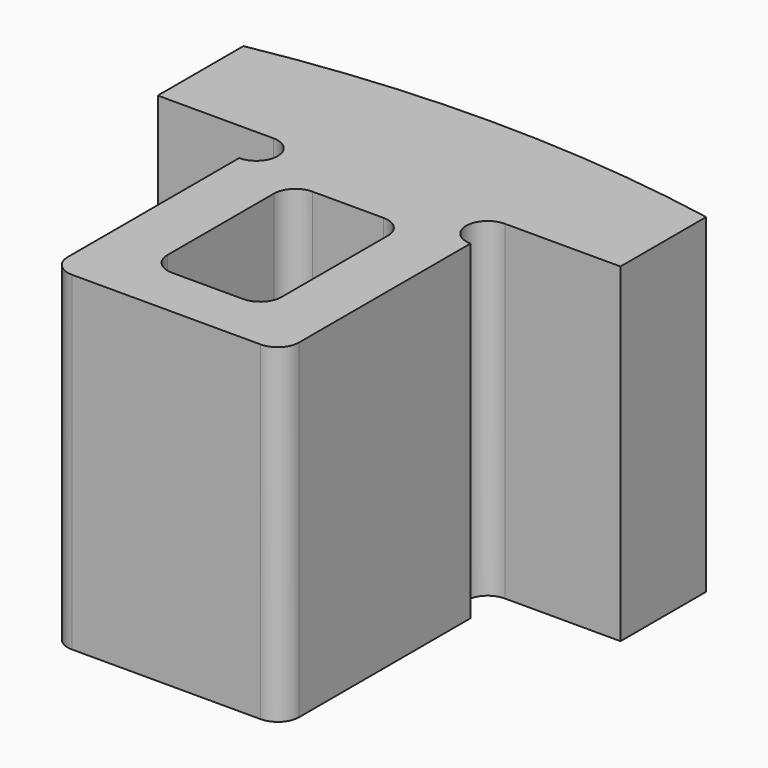
from build123d import *

# Parameters (mm, degrees)
F1_DEPTH = 9.779


with BuildPart() as f1:
    # F0 (on Top) → F1 (new body)
    with BuildSketch(Plane.XY):
        with BuildLine():
            ThreePointArc((-3.429, 0.635), (-3.243013, 0.185987), (-2.794, 0))
            Line((-2.794, 0), (2.794, 0))
            ThreePointArc((2.794, 0), (3.243013, 0.185987), (3.429, 0.635))
            Line((3.429, 0.635), (3.429, 6.985))
            ThreePointArc((3.429, 6.985), (2.794, 7.62), (3.429, 8.255))
            Line((3.429, 8.255), (6.858, 8.255))
            Line((6.858, 8.255), (6.858, 11.43))
            ThreePointArc((6.858, 11.43), (0, 12.065), (-6.858, 11.43))
            Line((-6.858, 11.43), (-6.858, 8.255))
            Line((-6.858, 8.255), (-3.429, 8.255))
            ThreePointArc((-3.429, 8.255), (-2.794, 7.62), (-3.429, 6.985))
            Line((-3.429, 6.985), (-3.429, 0.635))
        make_face()
        with BuildLine():
            ThreePointArc((-1.6891, 6.096), (-1.503113, 6.545013), (-1.0541, 6.731))
            Line((-1.0541, 6.731), (1.0541, 6.731))
            ThreePointArc((1.0541, 6.731), (1.503113, 6.545013), (1.6891, 6.096))
            Line((1.6891, 6.096), (1.6891, 2.159))
            ThreePointArc((1.6891, 2.159), (1.503113, 1.709987), (1.0541, 1.524))
            Line((1.0541, 1.524), (-1.0541, 1.524))
            ThreePointArc((-1.0541, 1.524), (-1.503113, 1.709987), (-1.6891, 2.159))
            Line((-1.6891, 2.159), (-1.6891, 6.096))
        make_face(mode=Mode.SUBTRACT)
    extrude(amount=F1_DEPTH)


solid = f1.part
